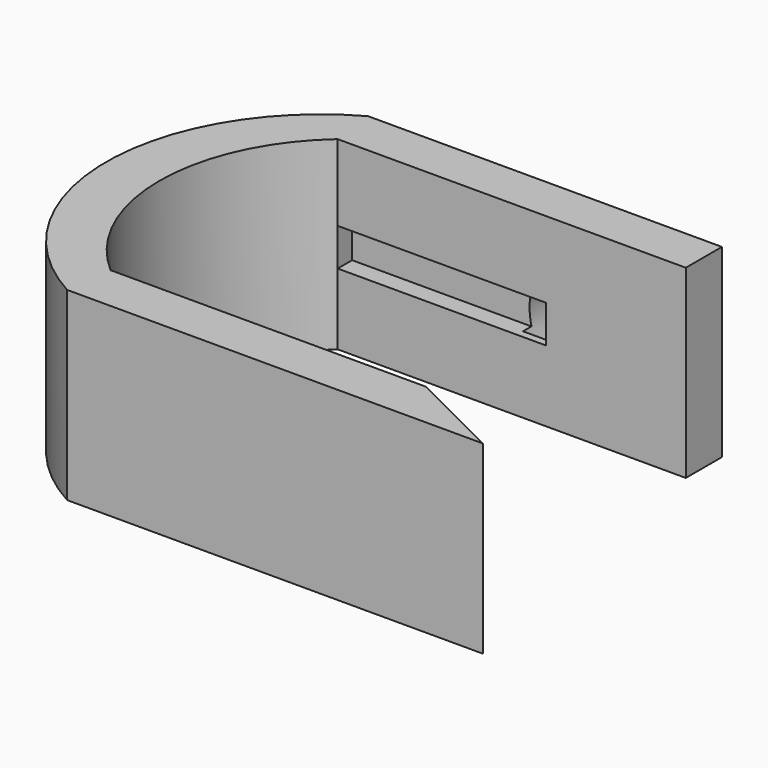
from build123d import *

# Parameters (mm, degrees)
F1_DEPTH = 31.242
F2_R     = 12.75
F3_DEPTH = 6.35
F5_DEPTH = 25.4
F7_DEPTH = 3.048


with BuildPart() as f1:
    # F0 (on Top) → F1 (new body)
    with BuildSketch(Plane.XY):
        with BuildLine():
            Line((-43.664057, -7.965392), (16.06224, -7.965392))
            Line((16.06224, -7.965392), (26.521553, -7.965392))
            Line((26.521553, -7.965392), (10.554898, 0))
            Line((10.554898, 0), (-42.705316, 0))
            ThreePointArc((-42.705316, 0), (-53.620007, 23.957304), (-42.705316, 47.914608))
            Line((-42.705316, 47.914608), (16.06224, 47.914608))
            Line((16.06224, 47.914608), (16.06224, 55.534608))
            Line((16.06224, 55.534608), (-43.664057, 55.534608))
            ThreePointArc((-43.664057, 55.534608), (-62.468951, 23.784608), (-43.664057, -7.965392))
        make_face()
    extrude(amount=F1_DEPTH)

    # F2 (on face) → F3 (cut)
    with BuildSketch(Plane(origin=(0, 55.534608, 0), x_dir=(-1, 0, 0), z_dir=(0, 1, 0))):
        with Locations((0, 14.851301)):
            Circle(F2_R)
    extrude(amount=-F3_DEPTH, mode=Mode.SUBTRACT)

    # F4 (on face) → F5 (cut)
    with BuildSketch(Plane(origin=(0, 49.184608, 0), x_dir=(-1, 0, 0), z_dir=(0, 1, 0))):
        with BuildLine():
            ThreePointArc((12.75, 14.851301), (12.626213, 16.623652), (12.257258, 18.361589))
            Line((12.257258, 18.361589), (7.501453, 18.361589))
            Line((7.501453, 18.361589), (7.501453, 12.011589))
            Line((7.501453, 12.011589), (12.429744, 12.011589))
            ThreePointArc((12.429744, 12.011589), (12.669683, 13.422444), (12.75, 14.851301))
        make_face()
    extrude(amount=-F5_DEPTH, mode=Mode.SUBTRACT)

    # F6 (on face) → F7 (cut)
    with BuildSketch(Plane.XZ.offset(-47.914608)):
        Polygon((-12.429744, 12.011589), (-12.257258, 18.361589), (-42.705316, 18.361589), (-42.705316, 12.011589), align=None)
    extrude(amount=-F7_DEPTH, mode=Mode.SUBTRACT)


solid = f1.part
